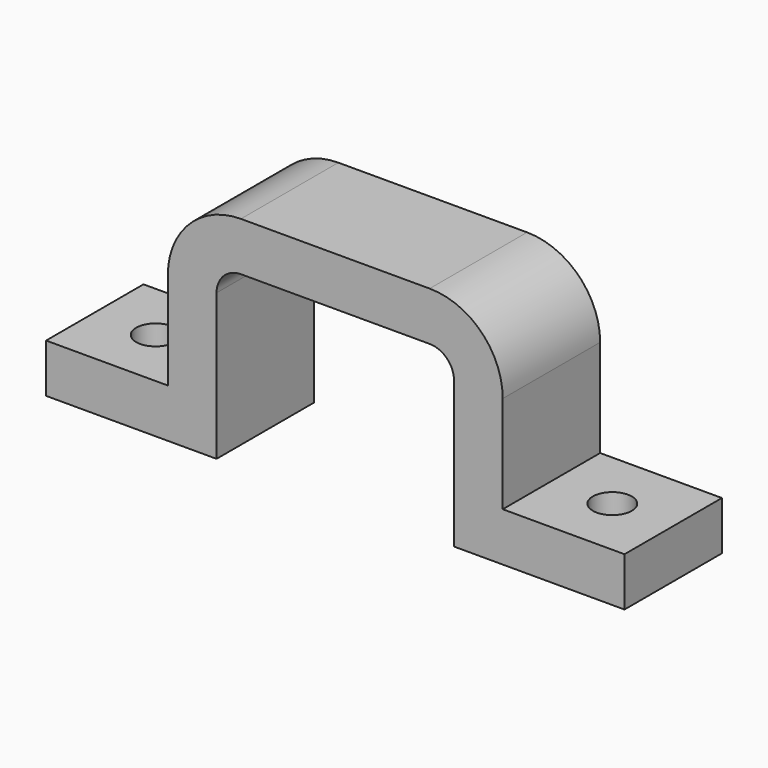
from build123d import *

# Parameters (mm, degrees)
F1_W     = 10
F1_H     = 4
F2_DEPTH = 5
F3_R     = 1.6
F4_DEPTH = 4.001


with BuildPart() as f2:
    # F1 (on Front) → F2 (new body, symmetric)
    with BuildSketch(Plane.XZ):
        with BuildLine():
            Line((-13.75, 0), (-9.75, 0))
            Line((-9.75, 0), (-9.75, 12))
            ThreePointArc((-9.75, 12), (-9.1642135624, 13.4142135624), (-7.75, 14))
            Line((-7.75, 14), (7.75, 14))
            ThreePointArc((7.75, 14), (9.1642135624, 13.4142135624), (9.75, 12))
            Line((9.75, 12), (9.75, 0))
            Line((9.75, 0), (13.75, 0))
            Line((13.75, 0), (13.75, 4))
            Line((13.75, 4), (13.75, 12))
            ThreePointArc((13.75, 12), (11.9926406871, 16.2426406871), (7.75, 18))
            Line((7.75, 18), (-7.75, 18))
            ThreePointArc((-7.75, 18), (-11.9926406871, 16.2426406871), (-13.75, 12))
            Line((-13.75, 12), (-13.75, 4))
            Line((-13.75, 4), (-13.75, 0))
        make_face()
        with Locations((18.75, 2)):
            Rectangle(F1_W, F1_H)
        with Locations((-18.75, 2)):
            Rectangle(F1_W, F1_H)
    extrude(amount=F2_DEPTH, both=True)

    # F3 (on face) → F4 (cut, through all)
    with BuildSketch(Plane.XY.offset(4)):
        with Locations((-18.75, 0)):
            Circle(F3_R)
        with Locations((18.75, 0)):
            Circle(F3_R)
    extrude(amount=-F4_DEPTH, mode=Mode.SUBTRACT)


solid = f2.part
